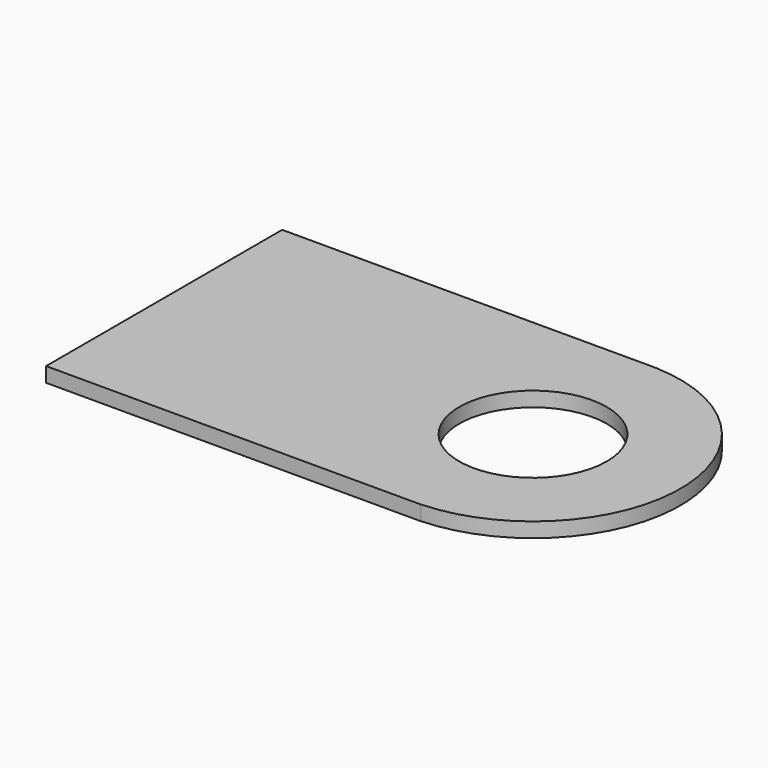
from build123d import *

# Parameters (mm, degrees)
CYLINDER035_R     = 0.5
CYLINDER035_DEPTH = 0.1
BOX014_W          = 2.54
BOX014_H          = 2
BOX014_DEPTH      = 0.1
CYLINDER034_R     = 0.5
CYLINDER034_DEPTH = 0.1
CYLINDER033_R     = 1
CYLINDER033_DEPTH = 0.1


with BuildPart() as cylinder035:
    # Cylinder035 → Cylinder035 (new body)
    with BuildSketch(Plane.XY.offset(1)):
        Circle(CYLINDER035_R)
    extrude(amount=CYLINDER035_DEPTH)


with BuildPart() as cut024:
    # Box014 → Box014 (new body)
    with BuildSketch(Plane(origin=(-2.5, -1, 1), x_dir=(1, 0, 0), z_dir=(0, 0, 1))):
        with Locations((1.27, 1)):
            Rectangle(BOX014_W, BOX014_H)
    extrude(amount=BOX014_DEPTH)

    # Cut024: cut Cylinder035
    add(cylinder035.part, mode=Mode.SUBTRACT)


with BuildPart() as cylinder034:
    # Cylinder034 → Cylinder034 (new body)
    with BuildSketch(Plane.XY.offset(1)):
        Circle(CYLINDER034_R)
    extrude(amount=CYLINDER034_DEPTH)


with BuildPart() as fusion011:
    # Cylinder033 → Cylinder033 (new body)
    with BuildSketch(Plane.XY.offset(1)):
        Circle(CYLINDER033_R)
    extrude(amount=CYLINDER033_DEPTH)

    # Cut023: cut Cylinder034
    add(cylinder034.part, mode=Mode.SUBTRACT)

    # Fusion011: union Cut024
    add(cut024.part)


with BuildPart() as fusion011_1:
    # Fusion011 placement: moved
    add(fusion011.part.moved(Location((0, -27.94, 5.5))))


solid = fusion011_1.part
